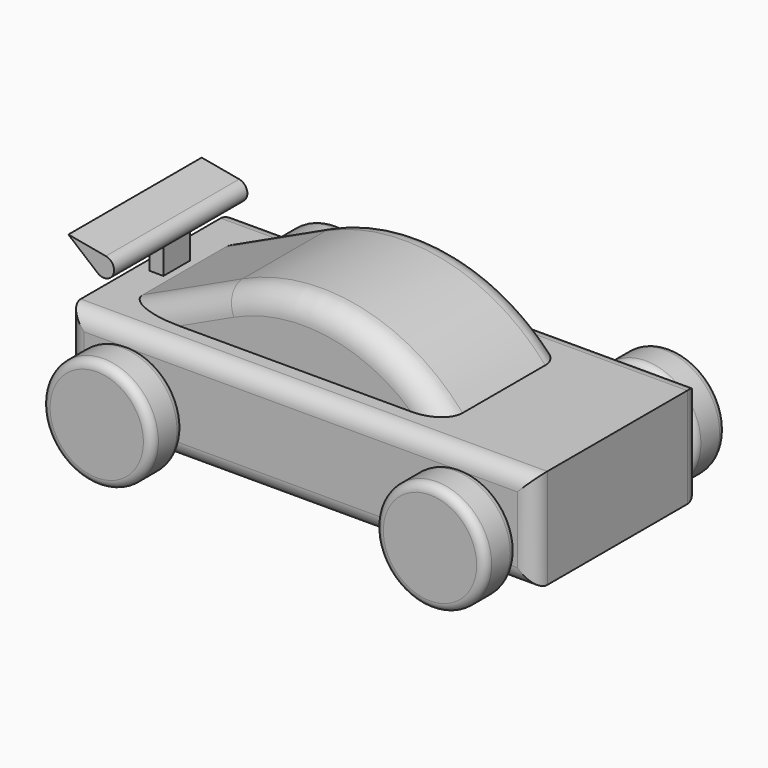
from build123d import *

# Parameters (mm, degrees)
F1_W      = 177.8
F1_H      = 38.1
F2_DEPTH  = 39.6875
F4_R      = 20.955
F5_DEPTH  = 15.24
F6_R      = 6.35
F7_R      = 3.175
F11_DEPTH = 28.575
F12_R     = 8.89
F14_DEPTH = 31.75
F15_W     = 5.3276568651
F15_H     = 13.3191440254
F16_DEPTH = 6.35


with BuildPart() as f2:
    # F1 (on Front) → F2 (new body, symmetric)
    with BuildSketch(Plane.XZ):
        Rectangle(F1_W, F1_H)
    extrude(amount=F2_DEPTH, both=True)

    # F6
    f6_edges = [f2.edges().sort_by_distance(p)[0] for p in [
        (88.9, -39.6875, 0),
        (0, -39.6875, 19.05),
        (-88.9, -39.6875, 0),
        (0, -39.6875, -19.05),
        (88.9, 39.6875, 0),
        (0, 39.6875, 19.05),
        (-88.9, 39.6875, 0),
        (0, 39.6875, -19.05),
    ]]
    fillet(f6_edges, radius=F6_R)

    # F10 (on Front) → F11 (join, symmetric)
    with BuildSketch(Plane.XZ):
        with BuildLine():
            Line((-38.1, 36.8163217757), (-76.2, 19.05))
            Line((-76.2, 19.05), (45.72, 19.05))
            ThreePointArc((45.72, 19.05), (6.7794356993, 41.9427067836), (-38.1, 36.8163217757))
        make_face()
    extrude(amount=F11_DEPTH, both=True)

    # F12
    f12_edges = [f2.edges().sort_by_distance(p)[0] for p in [
        (-57.15, 28.575, 27.933161),
        (6.779436, 28.575, 41.942707),
        (-57.15, -28.575, 27.933161),
        (6.779436, -28.575, 41.942707),
    ]]
    fillet(f12_edges, radius=F12_R)


with BuildPart() as f5:
    # F4 (on offset) → F5 (new body)
    with BuildSketch(Plane.XZ.offset(42.2275)):
        with Locations((63.5, -5.08)):
            Circle(F4_R)
    extrude(amount=F5_DEPTH)

    # F7
    f7_edges = [f5.edges().sort_by_distance(p)[0] for p in [
        (84.455, -49.8475, -5.08),
        (42.545, -42.2275, -5.08),
        (42.545, -57.4675, -5.08),
    ]]
    fillet(f7_edges, radius=F7_R)


with BuildPart() as f8_1:
    # F8: instance of F5
    add(f5.part.mirror(Plane.XZ))


with BuildPart() as f9_1:
    # F9: instance of F8_1
    add(f8_1.part.mirror(Plane.YZ))


with BuildPart() as f9_2:
    # F9: instance of F5
    add(f5.part.mirror(Plane.YZ))


with BuildPart() as f14:
    # F13 (on Front) → F14 (new body, symmetric)
    with BuildSketch(Plane.XZ):
        with BuildLine():
            Line((-80.5969343208, 35.4982691043), (-94.8737276529, 38.1))
            Line((-94.8737276529, 38.1), (-83.7162193985, 28.8206766921))
            ThreePointArc((-83.7162193985, 28.8206766921), (-77.8280516955, 30.1375010377), (-80.5969343208, 35.4982691043))
        make_face()
    extrude(amount=F14_DEPTH, both=True)


with BuildPart() as f16:
    # F15 (on Front) → F16 (new body, symmetric)
    with BuildSketch(Plane.XZ):
        with Locations((-81.6273242235, 24.0695951506)):
            Rectangle(F15_W, F15_H)
    extrude(amount=F16_DEPTH, both=True)


solid = Compound([f2.part, f5.part, f8_1.part, f9_1.part, f9_2.part, f14.part, f16.part])
